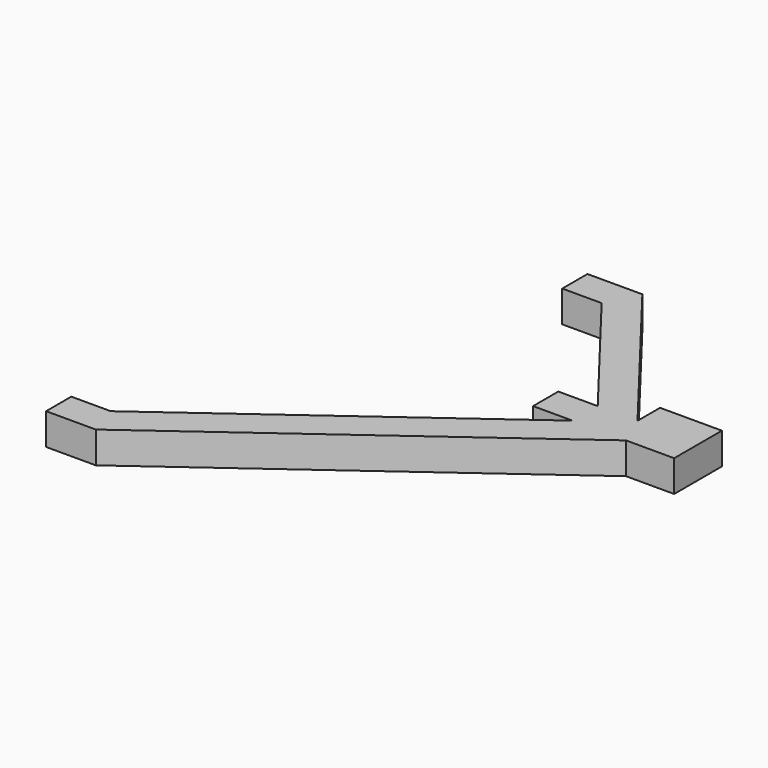
from build123d import *

# Parameters (mm, degrees)
F1_DEPTH = 8


with BuildPart() as f1:
    # F0 (on Top) → F1 (new body)
    with BuildSketch(Plane.XY):
        Polygon((10, 4), (0, 4), (0, -4), (10, -4), (-64, -58), (-74, -58), (-74, -66), (-61.391428, -66), (23.571535, -4), (35.806455, -4), (35.806455, 11.148615), (20.103788, 11.148615), (20.103788, 4), (-13.067641, 47), (-27, 47), (-27, 39), (-17, 39), align=None)
    extrude(amount=F1_DEPTH)


solid = f1.part
